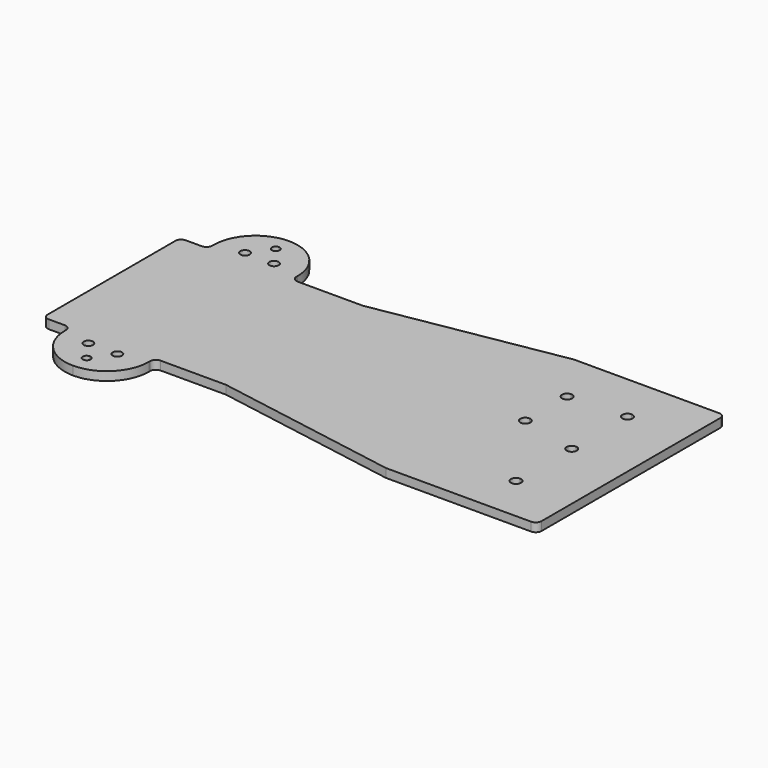
from build123d import *

# Parameters (mm, degrees)
F0_R     = 1.6
F1_DEPTH = 3


with BuildPart() as f1:
    # F0 (on Top) → F1 (new body)
    with BuildSketch(Plane.XY):
        Polygon((63, 29.5), (63, 0), (127, 0), (127, 40.5), align=None)
        with BuildLine():
            Line((127, 0), (63, 0))
            Line((63, 0), (24, 0))
            Line((24, 0), (24, -39.4))
            ThreePointArc((24, -39.4), (24.954594, -39.795406), (25.35, -40.75))
            ThreePointArc((25.35, -40.75), (24.954594, -41.704594), (24, -42.1))
            Line((24, -42.1), (24, -46.5))
            ThreePointArc((24, -46.5), (34.253048, -42.253048), (38.5, -32))
            Line((38.5, -32), (38.5, -31.5))
            ThreePointArc((38.5, -31.5), (39.085786, -30.085786), (40.5, -29.5))
            Line((40.5, -29.5), (63, -29.5))
            Line((63, -29.5), (127, -40.5))
            Line((127, -40.5), (139, -40.5))
            Line((139, -40.5), (139, 0))
            Line((139, 0), (127, 0))
        make_face()
        with Locations((29, -33.75)):
            Circle(F0_R, mode=Mode.SUBTRACT)
        with BuildLine():
            Line((24, 0), (63, 0))
            Line((63, 0), (63, 29.5))
            Line((63, 29.5), (40.5, 29.5))
            ThreePointArc((40.5, 29.5), (39.085786, 30.085786), (38.5, 31.5))
            Line((38.5, 31.5), (38.5, 32))
            Line((38.5, 32), (24, 32))
            Line((24, 32), (24, 0))
        make_face()
        with BuildLine():
            Line((127, 40.5), (127, 0))
            Line((127, 0), (139, 0))
            Line((139, 0), (139, 2.75))
            ThreePointArc((139, 2.75), (137.25, 4.5), (139, 6.25))
            Line((139, 6.25), (139, 20.75))
            ThreePointArc((139, 20.75), (137.25, 22.5), (139, 24.25))
            Line((139, 24.25), (139, 40.5))
            Line((139, 40.5), (127, 40.5))
        make_face()
        with BuildLine():
            Line((24, -39.4), (24, 0))
            Line((24, 0), (0, 0))
            Line((0, 0), (0, -27.5))
            ThreePointArc((0, -27.5), (0.585786, -28.914214), (2, -29.5))
            Line((2, -29.5), (7.5, -29.5))
            ThreePointArc((7.5, -29.5), (8.914214, -30.085786), (9.5, -31.5))
            Line((9.5, -31.5), (9.5, -32))
            ThreePointArc((9.5, -32), (13.746952, -42.253048), (24, -46.5))
            Line((24, -46.5), (24, -42.1))
            ThreePointArc((24, -42.1), (22.65, -40.75), (24, -39.4))
        make_face()
        with Locations((19, -33.75)):
            Circle(F0_R, mode=Mode.SUBTRACT)
        with BuildLine():
            Line((0, 0), (24, 0))
            Line((24, 0), (24, 32))
            Line((24, 32), (9.5, 32))
            Line((9.5, 32), (9.5, 31.5))
            ThreePointArc((9.5, 31.5), (8.914214, 30.085786), (7.5, 29.5))
            Line((7.5, 29.5), (2, 29.5))
            ThreePointArc((2, 29.5), (0.585786, 28.914214), (0, 27.5))
            Line((0, 27.5), (0, 0))
        make_face()
        with BuildLine():
            Line((139, 2.75), (139, 0))
            Line((139, 0), (157.322949, 0))
            ThreePointArc((157.322949, 0), (157.954175, 0.903122), (159, 1.25))
            Line((159, 1.25), (159, 21.75))
            ThreePointArc((159, 21.75), (157.25, 23.5), (159, 25.25))
            Line((159, 25.25), (159, 40.5))
            Line((159, 40.5), (139, 40.5))
            Line((139, 40.5), (139, 24.25))
            ThreePointArc((139, 24.25), (140.237437, 23.737437), (140.75, 22.5))
            ThreePointArc((140.75, 22.5), (140.237437, 21.262563), (139, 20.75))
            Line((139, 20.75), (139, 6.25))
            ThreePointArc((139, 6.25), (140.237437, 5.737437), (140.75, 4.5))
            ThreePointArc((140.75, 4.5), (140.237437, 3.262563), (139, 2.75))
        make_face()
        with BuildLine():
            Line((157.322949, 0), (139, 0))
            Line((139, 0), (139, -40.5))
            Line((139, -40.5), (159, -40.5))
            Line((159, -40.5), (159, -26.25))
            ThreePointArc((159, -26.25), (157.25, -24.5), (159, -22.75))
            Line((159, -22.75), (159, -2.25))
            ThreePointArc((159, -2.25), (157.596878, -1.545825), (157.322949, 0))
        make_face()
        with BuildLine():
            Line((24, 39.4), (24, 32))
            Line((24, 32), (38.5, 32))
            ThreePointArc((38.5, 32), (34.253048, 42.253048), (24, 46.5))
            Line((24, 46.5), (24, 42.1))
            ThreePointArc((24, 42.1), (24.954594, 41.704594), (25.35, 40.75))
            ThreePointArc((25.35, 40.75), (24.954594, 39.795406), (24, 39.4))
        make_face()
        with Locations((29, 33.75)):
            Circle(F0_R, mode=Mode.SUBTRACT)
        with BuildLine():
            Line((9.5, 32), (24, 32))
            Line((24, 32), (24, 39.4))
            ThreePointArc((24, 39.4), (22.65, 40.75), (24, 42.1))
            Line((24, 42.1), (24, 46.5))
            ThreePointArc((24, 46.5), (13.746952, 42.253048), (9.5, 32))
        make_face()
        with Locations((19, 33.75)):
            Circle(F0_R, mode=Mode.SUBTRACT)
        with BuildLine():
            Line((159, 21.75), (159, 1.25))
            ThreePointArc((159, 1.25), (160.045825, 0.903122), (160.677051, 0))
            Line((160.677051, 0), (179, 0))
            Line((179, 0), (179, 38.5))
            ThreePointArc((179, 38.5), (178.414214, 39.914214), (177, 40.5))
            Line((177, 40.5), (159, 40.5))
            Line((159, 40.5), (159, 25.25))
            ThreePointArc((159, 25.25), (160.237437, 24.737437), (160.75, 23.5))
            ThreePointArc((160.75, 23.5), (160.237437, 22.262563), (159, 21.75))
        make_face()
        with BuildLine():
            ThreePointArc((160.75, -0.5), (160.237437, -1.737437), (159, -2.25))
            Line((159, -2.25), (159, -22.75))
            ThreePointArc((159, -22.75), (160.237437, -23.262563), (160.75, -24.5))
            ThreePointArc((160.75, -24.5), (160.237437, -25.737437), (159, -26.25))
            Line((159, -26.25), (159, -40.5))
            Line((159, -40.5), (177, -40.5))
            ThreePointArc((177, -40.5), (178.414214, -39.914214), (179, -38.5))
            Line((179, -38.5), (179, 0))
            Line((179, 0), (160.677051, 0))
            ThreePointArc((160.677051, 0), (160.731667, -0.247353), (160.75, -0.5))
        make_face()
    extrude(amount=F1_DEPTH)


solid = f1.part
